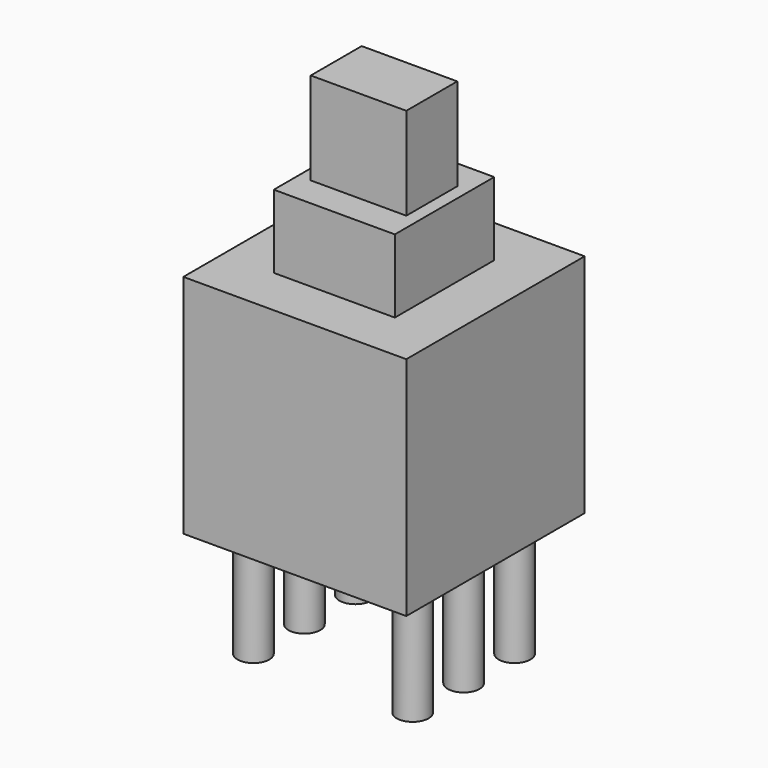
from build123d import *

# Parameters (mm, degrees)
SKETCH069_W             = 7
SKETCH069_H             = 7
PAD039_DEPTH            = 7.1
SKETCH070_R             = 0.5
PAD040_DEPTH            = 3.6
SKETCH071_W             = 3.9
SKETCH071_H             = 3.8
PAD041_DEPTH            = 9.4
SKETCH072_W             = 2
SKETCH072_H             = 3
PAD042_DEPTH            = 12.3
BODY052_PLACEMENT_ANGLE = 90


with BuildPart() as part:
    # Sketch069 → Pad039 (new body)
    with BuildSketch(Plane.XY):
        Rectangle(SKETCH069_W, SKETCH069_H)
    extrude(amount=PAD039_DEPTH)

    # Sketch070 → Pad040 (join)
    with BuildSketch(Plane.XY):
        with Locations((0, 2.5)):
            Circle(SKETCH070_R)
        with Locations((0, -2.5)):
            Circle(SKETCH070_R)
        with Locations((2, 2.5)):
            Circle(SKETCH070_R)
        with Locations((-2, 2.5)):
            Circle(SKETCH070_R)
        with Locations((-2, -2.5)):
            Circle(SKETCH070_R)
        with Locations((2, -2.5)):
            Circle(SKETCH070_R)
    extrude(amount=-PAD040_DEPTH)

    # Sketch071 → Pad041 (join)
    with BuildSketch(Plane.XY):
        Rectangle(SKETCH071_W, SKETCH071_H)
    extrude(amount=PAD041_DEPTH)

    # Sketch072 → Pad042 (join)
    with BuildSketch(Plane.XY):
        Rectangle(SKETCH072_W, SKETCH072_H)
    extrude(amount=PAD042_DEPTH)


with BuildPart() as part_1:
    # Body052 placement: moved
    add(part.part.moved(Location((-8.2, 0, 0))).rotate(Axis((-8.2, 0, 0), (0, 0, 1)), BODY052_PLACEMENT_ANGLE))


with BuildPart() as part_2:
    # Clone002 placement: moved
    add(part_1.part.moved(Location((3.2, 0, 0))))


with BuildPart() as part_3:
    # Body053 placement: moved
    add(part_2.part.moved(Location((13.2, 0, 0))))


solid = part_3.part
